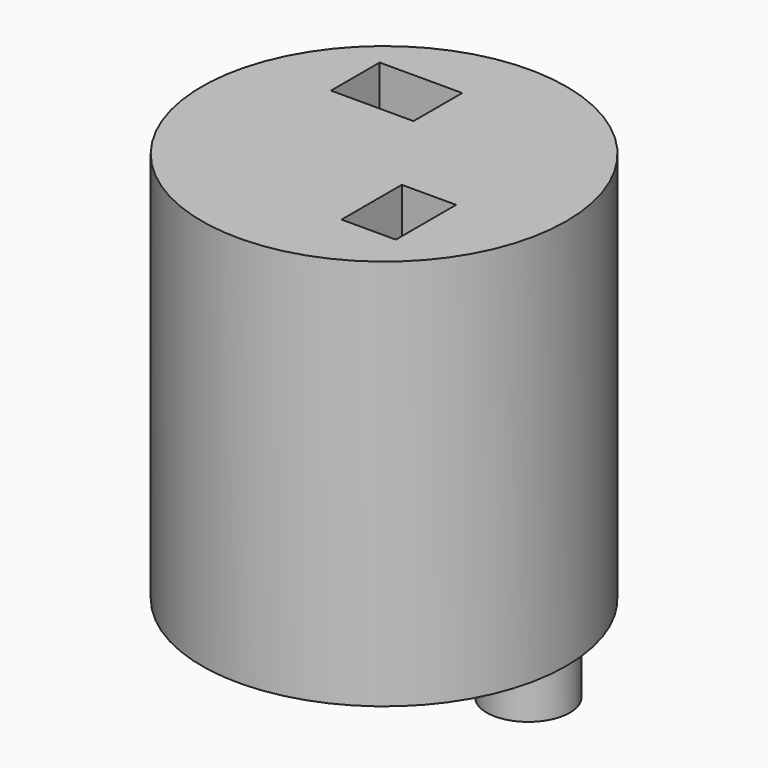
from build123d import *

# Parameters (mm, degrees)
F0_R     = 49.290274
F0_W     = 14.689719
F0_H     = 20.369744
F0_W_2   = 22.328372
F0_H_2   = 16.452484
F1_DEPTH = 105.87795
F2_R     = 11.246369
F3_DEPTH = 25.4


with BuildPart() as f1:
    # F0 (on Top) → F1 (new body)
    with BuildSketch(Plane.XY):
        Circle(F0_R)
        with Locations((19.096635, -18.900772)):
            Rectangle(F0_W, F0_H, mode=Mode.SUBTRACT)
        with Locations((-15.669033, 23.797344)):
            Rectangle(F0_W_2, F0_H_2, mode=Mode.SUBTRACT)
    extrude(amount=F1_DEPTH)

    # F2 (on face) → F3 (join)
    with BuildSketch(Plane(origin=(0, 0, 0), x_dir=(1, 0, 0), z_dir=(0, 0, -1))):
        with Locations((21.489659, -21.869453)):
            Circle(F2_R)
    extrude(amount=F3_DEPTH)


solid = f1.part
